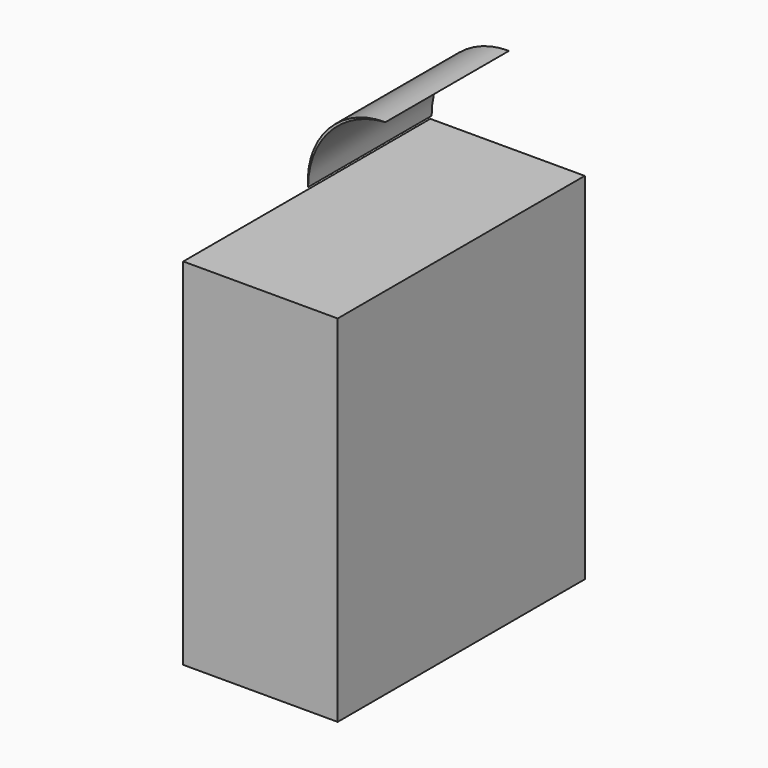
from build123d import *

# Parameters (mm, degrees)
F0_W      = 25.4
F0_H      = 58.42
F1_DEPTH  = 25.4
F1_FACE_W = 25.4
F1_FACE_H = 58.42
F3_DEPTH  = 25.4


with BuildPart() as f1:
    # F0 (on Front) → F1 (new body)
    with BuildSketch(Plane.XZ):
        with Locations((-0.232415, 29.21)):
            Rectangle(F0_W, F0_H)
    extrude(amount=F1_DEPTH)

    # F2 (on Front) + F1_face (on face) → F3 (join)
    with BuildSketch(Plane.XZ):
        with BuildLine():
            ThreePointArc((-12.718554, 58.922013), (-9.057083, 68.226195), (0, 72.462164))
            ThreePointArc((0, 72.462164), (-9.337989, 68.490057), (-12.718554, 58.922013))
        make_face()
    with BuildSketch(Plane(origin=(-0.232415, -25.4, 29.21), x_dir=(1, 0, 0), z_dir=(0, -1, 0))):
        Rectangle(F1_FACE_W, F1_FACE_H)
    extrude(amount=F3_DEPTH)


solid = f1.part
